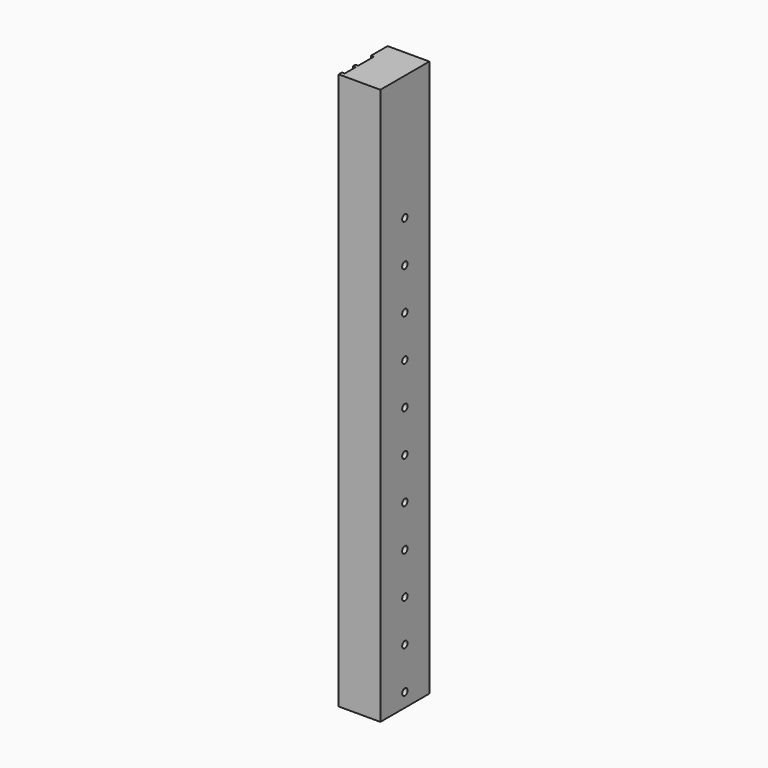
from build123d import *

# Parameters (mm, degrees)
PAD019_DEPTH    = 200
SKETCH043_R     = 1.2
POCKET023_DEPTH = 15


with BuildPart() as body010:
    # Sketch042 → Pad019 (new body)
    with BuildSketch(Plane.XY):
        Polygon((0, 22), (15, 22), (15, 14.5), (14, 14.5), (14, 7.5), (15, 7.5), (15, 6.5), (14, 6.5), (14, 1.5), (15, 1.5), (15, 0), (0, 0), align=None)
    extrude(amount=PAD019_DEPTH)

    # Sketch043 (on Face7 of Pad019) → Pocket023 (cut)
    with BuildSketch(Plane(origin=(0, 0, 0), x_dir=(0, -1, 0), z_dir=(-1, 0, 0))):
        with Locations((-11, 5)):
            Circle(SKETCH043_R)
        with Locations((-11, 35)):
            Circle(SKETCH043_R)
        with Locations((-11, 65)):
            Circle(SKETCH043_R)
        with Locations((-11, 110)):
            Circle(SKETCH043_R)
        with Locations((-11, 95)):
            Circle(SKETCH043_R)
        with Locations((-11, 80)):
            Circle(SKETCH043_R)
        with Locations((-11, 50)):
            Circle(SKETCH043_R)
        with Locations((-11, 20)):
            Circle(SKETCH043_R)
        with Locations((-11, 140)):
            Circle(SKETCH043_R)
        with Locations((-11, 125)):
            Circle(SKETCH043_R)
        with Locations((-11, 155)):
            Circle(SKETCH043_R)
    extrude(amount=-POCKET023_DEPTH, mode=Mode.SUBTRACT)


with BuildPart() as body010_1:
    # Body010 placement: moved
    add(body010.part.moved(Location((-123, 78, -111))))


with BuildPart() as part_mirroring001:
    # Part__Mirroring001: instance of Body010
    add(body010_1.part.mirror(Plane(origin=(0, 0, 0), x_dir=(0, -1, 0), z_dir=(1, 0, 0))))


solid = part_mirroring001.part
